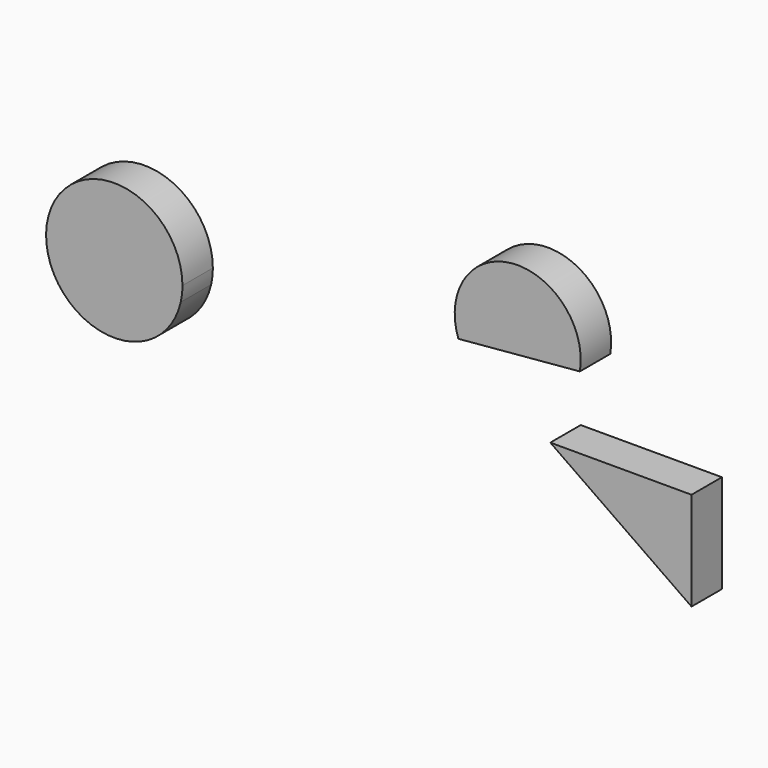
from build123d import *

# Parameters (mm, degrees)
F1_DEPTH = 25.4


with BuildPart() as f1:
    # F0 (on Front) → F1 (new body)
    with BuildSketch(Plane.XZ):
        with BuildLine():
            ThreePointArc((-123.255483, 9.525602), (-122.404942, 14.548261), (-122.120243, 19.634465))
            ThreePointArc((-122.120243, 19.634465), (-198.476408, 53.244697), (-171.693037, -25.765193))
            ThreePointArc((-171.693037, -25.765193), (-150.010482, -4.638764), (-123.255483, 9.525602))
        make_face()
        with BuildLine():
            ThreePointArc((-123.255483, 9.525602), (-150.010482, -4.638764), (-171.693037, -25.765193))
            ThreePointArc((-171.693037, -25.765193), (-140.857879, -17.200954), (-123.255483, 9.525602))
        make_face()
        with BuildLine():
            Line((62.337082, 48.285719), (143.550888, 55.487365))
            ThreePointArc((143.550888, 55.487365), (98.288388, 104.388255), (62.337082, 48.285719))
        make_face()
        Polygon((218.179792, 7.202301), (123.79618, 7.202301), (218.179792, -58.618125), align=None)
    extrude(amount=F1_DEPTH)


solid = f1.part
